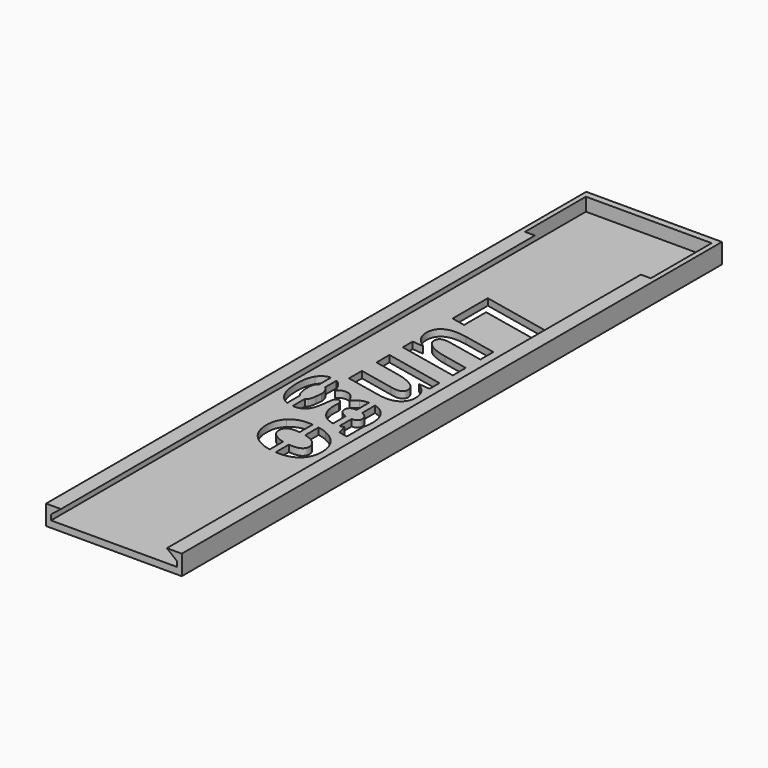
from build123d import *

# Parameters (mm, degrees)
F1_DEPTH = 202
F2_W     = 41
F2_H     = 6
F3_DEPTH = 2
F5_W     = 38
F5_H     = 23
F6_DEPTH = 4
F9_DEPTH = 2


with BuildPart() as f1:
    # F0 (on Front) → F1 (new body)
    with BuildSketch(Plane.XZ):
        Polygon((-20.5, 6), (-20.5, 0), (20.5, 0), (20.5, 6), (16, 6), (19, 3.6), (19, 2), (-19, 2), (-19, 3.6), (-16, 6), align=None)
    extrude(amount=F1_DEPTH)

    # F2 (on Front) → F3 (join)
    with BuildSketch(Plane.XZ):
        with Locations((0, 3)):
            Rectangle(F2_W, F2_H)
    extrude(amount=-F3_DEPTH)

    # F5 (on offset) → F6 (cut)
    with BuildSketch(Plane.XY.offset(6)):
        with Locations((0, -11.5)):
            Rectangle(F5_W, F5_H)
    extrude(amount=-F6_DEPTH, mode=Mode.SUBTRACT)

    # F8 (on offset) → F9 (cut, through all)
    with BuildSketch(Plane.XY.offset(2)):
        Polygon((14.329903841, -53.9844744205), (-9.466971159, -48.9584327539), (-9.466971159, -62.2553077539), (-5.3003044923, -63.1355160872), (-5.3003044923, -54.8021827539), (14.329903841, -58.9688494205), align=None)
        with BuildLine():
            Line((8.7309455077, -74.5261410872), (8.7309455077, -69.6303077539))
            Line((8.7309455077, -69.6303077539), (-1.1023878256, -67.5625994205))
            add(Edge.make_bspline(
                [(-4.5659294923, -67.1719744205), (-3.0555128256, -67.1719744205), (-1.1023878256, -67.5625994205)],
                knots=[0, 0, 0, 1, 1, 1], degree=2))
            add(Edge.make_bspline(
                [(-8.451346159, -68.3594744205), (-7.107596159, -67.1719744205), (-4.5659294923, -67.1719744205)],
                knots=[0, 0, 0, 1, 1, 1], degree=2))
            add(Edge.make_bspline(
                [(-9.795096159, -71.7917660872), (-9.795096159, -69.5469744205), (-8.451346159, -68.3594744205)],
                knots=[0, 0, 0, 1, 1, 1], degree=2))
            add(Edge.make_bspline(
                [(-6.0971794923, -77.5730160872), (-9.795096159, -75.2136410872), (-9.795096159, -71.7917660872)],
                knots=[0, 0, 0, 1, 1, 1], degree=2))
            Line((-6.0971794923, -77.5730160872), (-6.0971794923, -77.6719744205))
            Line((-6.0971794923, -77.6719744205), (-9.466971159, -77.3282244205))
            Line((-9.466971159, -77.3282244205), (-9.466971159, -81.0730160872))
            Line((-9.466971159, -81.0730160872), (8.7309455077, -84.9271827539))
            Line((8.7309455077, -84.9271827539), (8.7309455077, -80.0313494205))
            Line((8.7309455077, -80.0313494205), (1.1944871744, -78.4323910872))
            add(Edge.make_bspline(
                [(-3.982596159, -76.5131202539), (-2.1284294923, -77.7344744205), (1.1944871744, -78.4323910872)],
                knots=[0, 0, 0, 1, 1, 1], degree=2))
            add(Edge.make_bspline(
                [(-5.8367628256, -73.7969744205), (-5.8367628256, -75.2917660872), (-3.982596159, -76.5131202539)],
                knots=[0, 0, 0, 1, 1, 1], degree=2))
            add(Edge.make_bspline(
                [(-3.8367628256, -72.0365577539), (-5.8367628256, -72.0365577539), (-5.8367628256, -73.7969744205)],
                knots=[0, 0, 0, 1, 1, 1], degree=2))
            add(Edge.make_bspline(
                [(-1.8992628256, -72.2969744205), (-3.0034294923, -72.0365577539), (-3.8367628256, -72.0365577539)],
                knots=[0, 0, 0, 1, 1, 1], degree=2))
            Line((-1.8992628256, -72.2969744205), (8.7309455077, -74.5261410872))
        make_face()
        with BuildLine():
            Line((-9.466971159, -96.5053077539), (-9.466971159, -101.4011410872))
            Line((-9.466971159, -101.4011410872), (0.9028205077, -103.5678077539))
            add(Edge.make_bspline(
                [(3.829903841, -103.9428077539), (2.642403841, -103.9428077539), (0.9028205077, -103.5678077539)],
                knots=[0, 0, 0, 1, 1, 1], degree=2))
            add(Edge.make_bspline(
                [(7.712716341, -102.7136410872), (6.3559455077, -103.9428077539), (3.829903841, -103.9428077539)],
                knots=[0, 0, 0, 1, 1, 1], degree=2))
            add(Edge.make_bspline(
                [(9.0694871744, -99.2396827539), (9.0694871744, -101.4844744205), (7.712716341, -102.7136410872)],
                knots=[0, 0, 0, 1, 1, 1], degree=2))
            add(Edge.make_bspline(
                [(5.361153841, -93.4584327539), (9.0694871744, -95.8334327539), (9.0694871744, -99.2396827539)],
                knots=[0, 0, 0, 1, 1, 1], degree=2))
            Line((5.361153841, -93.4584327539), (5.361153841, -93.3594744205))
            Line((5.361153841, -93.3594744205), (8.7309455077, -93.7032244205))
            Line((8.7309455077, -93.7032244205), (8.7309455077, -89.9584327539))
            Line((8.7309455077, -89.9584327539), (-9.466971159, -86.1042660872))
            Line((-9.466971159, -86.1042660872), (-9.466971159, -91.0000994205))
            Line((-9.466971159, -91.0000994205), (-1.9305128256, -92.5990577539))
            add(Edge.make_bspline(
                [(3.243966341, -94.5183285872), (1.3871955077, -93.2969744205), (-1.9305128256, -92.5990577539)],
                knots=[0, 0, 0, 1, 1, 1], degree=2))
            add(Edge.make_bspline(
                [(5.1007371744, -97.2344744205), (5.1007371744, -95.7396827539), (3.243966341, -94.5183285872)],
                knots=[0, 0, 0, 1, 1, 1], degree=2))
            add(Edge.make_bspline(
                [(3.1007371744, -98.9948910872), (5.1007371744, -98.9948910872), (5.1007371744, -97.2344744205)],
                knots=[0, 0, 0, 1, 1, 1], degree=2))
            add(Edge.make_bspline(
                [(1.1632371744, -98.7344744205), (2.267403841, -98.9948910872), (3.1007371744, -98.9948910872)],
                knots=[0, 0, 0, 1, 1, 1], degree=2))
            Line((1.1632371744, -98.7344744205), (-9.466971159, -96.5053077539))
        make_face()
        with BuildLine():
            add(Edge.make_bspline(
                [(4.0109992474, -108.4262125397), (5.8969999361, -108.8752413691), (7.173653841, -110.2500994205)],
                knots=[0.3266001381, 0.3266001381, 0.3266001381, 1, 1, 1], degree=2))
            Line((4.0109992474, -108.4262125397), (4.0109992474, -113.2452108388))
            add(Edge.make_bspline(
                [(4.7179246744, -113.6016619205), (4.386438484, -113.3961266418), (4.0109992474, -113.2452108388)],
                knots=[0, 0, 0, 0.2657425827, 0.2657425827, 0.2657425827], degree=2))
            add(Edge.make_bspline(
                [(5.9653205077, -115.6303077539), (5.9653205077, -114.3750994205), (4.7179246744, -113.6016619205)],
                knots=[0, 0, 0, 1, 1, 1], degree=2))
            add(Edge.make_bspline(
                [(4.0590705077, -117.2396827539), (5.9653205077, -117.2396827539), (5.9653205077, -115.6303077539)],
                knots=[0, 0, 0, 1, 1, 1], degree=2))
            add(Edge.make_bspline(
                [(4.0109992474, -117.2395621602), (4.0349820659, -117.2396827539), (4.0590705077, -117.2396827539)],
                knots=[0.9873634403, 0.9873634403, 0.9873634403, 1, 1, 1], degree=2))
            Line((4.0109992474, -117.2395621602), (4.0109992474, -121.775109803))
            add(Edge.make_bspline(
                [(5.329903841, -121.5365577539), (4.7269386104, -121.7215164136), (4.0109992474, -121.775109803)],
                knots=[0, 0, 0, 0.7102412532, 0.7102412532, 0.7102412532], degree=2))
            Line((5.329903841, -121.5365577539), (5.9965705077, -124.3698910872))
            Line((5.9965705077, -124.3698910872), (8.6996955077, -124.9375994205))
            Line((8.6996955077, -124.9375994205), (8.6996955077, -118.5105160872))
            add(Edge.make_bspline(
                [(9.0694871744, -115.8073910872), (9.0694871744, -117.1615577539), (8.6996955077, -118.5105160872)],
                knots=[0, 0, 0, 1, 1, 1], degree=2))
            add(Edge.make_bspline(
                [(7.173653841, -110.2500994205), (9.0694871744, -112.2917660872), (9.0694871744, -115.8073910872)],
                knots=[0, 0, 0, 1, 1, 1], degree=2))
        make_face()
        with BuildLine():
            Line((2.0109992474, -112.8378896944), (2.0109992474, -108.208476623))
            add(Edge.make_bspline(
                [(-0.451346159, -108.7136410872), (0.5651343767, -108.2131405189), (2.0109992474, -108.208476623)],
                knots=[0, 0, 0, 0.9906815374, 0.9906815374, 0.9906815374], degree=2))
            add(Edge.make_bspline(
                [(-2.2742628256, -110.2761410872), (-1.4773878256, -109.2188494205), (-0.451346159, -108.7136410872)],
                knots=[0, 0, 0, 1, 1, 1], degree=2))
            add(Edge.make_bspline(
                [(-3.8758253256, -107.8907244205), (-3.0398878256, -108.6146827539), (-2.2742628256, -110.2761410872)],
                knots=[0, 0, 0, 1, 1, 1], degree=2))
            add(Edge.make_bspline(
                [(-5.8680128256, -107.1667660872), (-4.7117628256, -107.1667660872), (-3.8758253256, -107.8907244205)],
                knots=[0, 0, 0, 1, 1, 1], degree=2))
            add(Edge.make_bspline(
                [(-8.0346794923, -108.3698910872), (-7.2690544923, -107.1667660872), (-5.8680128256, -107.1667660872)],
                knots=[0, 0, 0, 1, 1, 1], degree=2))
            add(Edge.make_bspline(
                [(-10.0112419923, -104.8803077539), (-8.8159294923, -105.9948910872), (-8.0346794923, -108.3698910872)],
                knots=[0, 0, 0, 1, 1, 1], degree=2))
            add(Edge.make_bspline(
                [(-11.0132585764, -104.1810673988), (-10.4768809062, -104.4461172198), (-10.0112419923, -104.8803077539)],
                knots=[0.6104458759, 0.6104458759, 0.6104458759, 1, 1, 1], degree=2))
            Line((-11.0132585764, -104.1810673988), (-11.0132585764, -108.4627048705))
            add(Edge.make_bspline(
                [(-10.4930128256, -108.9636410872), (-10.7310258446, -108.6616842721), (-11.0132585764, -108.4627048705)],
                knots=[0, 0, 0, 0.3410335794, 0.3410335794, 0.3410335794], degree=2))
            add(Edge.make_bspline(
                [(-9.5659294923, -111.5782244205), (-9.795096159, -109.8490577539), (-10.4930128256, -108.9636410872)],
                knots=[0, 0, 0, 1, 1, 1], degree=2))
            Line((-9.5659294923, -111.5782244205), (-9.795096159, -113.4323910872))
            add(Edge.make_bspline(
                [(-10.3628044923, -115.6693702539), (-10.0190544923, -115.1407244205), (-9.795096159, -113.4323910872)],
                knots=[0, 0, 0, 1, 1, 1], degree=2))
            add(Edge.make_bspline(
                [(-11.0132585764, -116.1584176683), (-10.6124740776, -116.0533318131), (-10.3628044923, -115.6693702539)],
                knots=[0.2736884792, 0.2736884792, 0.2736884792, 1, 1, 1], degree=2))
            Line((-11.0132585764, -116.1584176683), (-11.0132585764, -120.7181658476))
            add(Edge.make_bspline(
                [(-10.3940544923, -120.7396827539), (-10.7104978071, -120.7396827539), (-11.0132585764, -120.7181658476)],
                knots=[0, 0, 0, 0.092056237, 0.092056237, 0.092056237], degree=2))
            add(Edge.make_bspline(
                [(-7.4070753256, -119.5261410872), (-8.4409294923, -120.7396827539), (-10.3940544923, -120.7396827539)],
                knots=[0, 0, 0, 1, 1, 1], degree=2))
            add(Edge.make_bspline(
                [(-6.0346794923, -115.6615577539), (-6.373221159, -118.3125994205), (-7.4070753256, -119.5261410872)],
                knots=[0, 0, 0, 1, 1, 1], degree=2))
            Line((-6.0346794923, -115.6615577539), (-5.7378044923, -113.4323910872))
            add(Edge.make_bspline(
                [(-5.365408659, -111.9844744205), (-5.607596159, -112.4740577539), (-5.7378044923, -113.4323910872)],
                knots=[0, 0, 0, 1, 1, 1], degree=2))
            add(Edge.make_bspline(
                [(-4.5659294923, -111.4948910872), (-5.123221159, -111.4948910872), (-5.365408659, -111.9844744205)],
                knots=[0, 0, 0, 1, 1, 1], degree=2))
            add(Edge.make_bspline(
                [(-3.3003044923, -112.8646827539), (-3.7378044923, -111.4948910872), (-4.5659294923, -111.4948910872)],
                knots=[0, 0, 0, 1, 1, 1], degree=2))
            add(Edge.make_bspline(
                [(-3.4617628256, -114.4740577539), (-3.4617628256, -113.5157244205), (-3.3003044923, -112.8646827539)],
                knots=[0, 0, 0, 1, 1, 1], degree=2))
            add(Edge.make_bspline(
                [(-1.6128044923, -119.8282244205), (-3.4617628256, -117.8594744205), (-3.4617628256, -114.4740577539)],
                knots=[0, 0, 0, 1, 1, 1], degree=2))
            add(Edge.make_bspline(
                [(2.0109992474, -121.6915681019), (-0.1916701764, -121.3414322274), (-1.6128044923, -119.8282244205)],
                knots=[0.2313865108, 0.2313865108, 0.2313865108, 1, 1, 1], degree=2))
            Line((2.0109992474, -121.6915681019), (2.0109992474, -116.9681989679))
            add(Edge.make_bspline(
                [(0.908028841, -116.4844744205), (1.4064830583, -116.7868838829), (2.0109992474, -116.9681989679)],
                knots=[0, 0, 0, 0.4004318398, 0.4004318398, 0.4004318398], degree=2))
            add(Edge.make_bspline(
                [(-0.3367628256, -114.5053077539), (-0.3367628256, -115.7292660872), (0.908028841, -116.4844744205)],
                knots=[0, 0, 0, 1, 1, 1], degree=2))
            add(Edge.make_bspline(
                [(1.6007371744, -112.8282244205), (-0.3367628256, -112.8282244205), (-0.3367628256, -114.5053077539)],
                knots=[0, 0, 0, 1, 1, 1], degree=2))
            add(Edge.make_bspline(
                [(2.0109992474, -112.8378896944), (1.8097571006, -112.8282244205), (1.6007371744, -112.8282244205)],
                knots=[0.8882121843, 0.8882121843, 0.8882121843, 1, 1, 1], degree=2))
        make_face()
        with BuildLine():
            Line((-13.0132585764, -108.2367659888), (-13.0132585764, -103.7679172388))
            add(Edge.make_bspline(
                [(-16.248221159, -105.6615577539), (-15.060857932, -103.8302009122), (-13.0132585764, -103.7679172388)],
                knots=[0, 0, 0, 0.965990422, 0.965990422, 0.965990422], degree=2))
            add(Edge.make_bspline(
                [(-17.4773878256, -110.9428077539), (-17.4773878256, -107.5573910872), (-16.248221159, -105.6615577539)],
                knots=[0, 0, 0, 1, 1, 1], degree=2))
            add(Edge.make_bspline(
                [(-15.654471159, -118.2006202539), (-17.4773878256, -115.6615577539), (-17.4773878256, -110.9428077539)],
                knots=[0, 0, 0, 1, 1, 1], degree=2))
            add(Edge.make_bspline(
                [(-13.0132585764, -120.28538064), (-14.6026399254, -119.6656709006), (-15.654471159, -118.2006202539)],
                knots=[0.4229954376, 0.4229954376, 0.4229954376, 1, 1, 1], degree=2))
            Line((-13.0132585764, -120.28538064), (-13.0132585764, -115.4827402389))
            add(Edge.make_bspline(
                [(-13.4070753256, -114.9454119205), (-13.2282787956, -115.2514657674), (-13.0132585764, -115.4827402389)],
                knots=[0, 0, 0, 0.2443340482, 0.2443340482, 0.2443340482], degree=2))
            add(Edge.make_bspline(
                [(-14.138846159, -111.2344744205), (-14.138846159, -113.6928077539), (-13.4070753256, -114.9454119205)],
                knots=[0, 0, 0, 1, 1, 1], degree=2))
            add(Edge.make_bspline(
                [(-13.0132585764, -108.2367659888), (-14.138846159, -108.7856117436), (-14.138846159, -111.2344744205)],
                knots=[0.2241227162, 0.2241227162, 0.2241227162, 1, 1, 1], degree=2))
        make_face()
        with BuildLine():
            Line((-1.3852887205, -130.142629513), (-1.3852887205, -125.1858483621))
            add(Edge.make_bspline(
                [(-2.795096159, -125.1355160872), (-2.0738091153, -125.1355160872), (-1.3852887205, -125.1858483621)],
                knots=[0, 0, 0, 0.2079386072, 0.2079386072, 0.2079386072], degree=2))
            add(Edge.make_bspline(
                [(-7.881033659, -127.0313494205), (-5.966971159, -125.1355160872), (-2.795096159, -125.1355160872)],
                knots=[0, 0, 0, 1, 1, 1], degree=2))
            add(Edge.make_bspline(
                [(-9.795096159, -132.1042660872), (-9.795096159, -128.9271827539), (-7.881033659, -127.0313494205)],
                knots=[0, 0, 0, 1, 1, 1], degree=2))
            add(Edge.make_bspline(
                [(-8.3367628256, -137.2474952539), (-9.795096159, -135.0834327539), (-9.795096159, -132.1042660872)],
                knots=[0, 0, 0, 1, 1, 1], degree=2))
            add(Edge.make_bspline(
                [(-4.224783659, -140.5599952539), (-6.8784294923, -139.4115577539), (-8.3367628256, -137.2474952539)],
                knots=[0, 0, 0, 1, 1, 1], degree=2))
            add(Edge.make_bspline(
                [(-1.3852887205, -141.4196577403), (-2.9018038968, -141.1325507741), (-4.224783659, -140.5599952539)],
                knots=[0.5014482545, 0.5014482545, 0.5014482545, 1, 1, 1], degree=2))
            Line((-1.3852887205, -141.4196577403), (-1.3852887205, -136.4040712677))
            add(Edge.make_bspline(
                [(-2.0190544923, -136.2292660872), (-1.7070455765, -136.3250582982), (-1.3852887205, -136.4040712677)],
                knots=[0, 0, 0, 0.1751629001, 0.1751629001, 0.1751629001], degree=2))
            add(Edge.make_bspline(
                [(-4.802908659, -134.7058285872), (-3.8003044923, -135.6823910872), (-2.0190544923, -136.2292660872)],
                knots=[0, 0, 0, 1, 1, 1], degree=2))
            add(Edge.make_bspline(
                [(-5.8055128256, -132.5105160872), (-5.8055128256, -133.7292660872), (-4.802908659, -134.7058285872)],
                knots=[0, 0, 0, 1, 1, 1], degree=2))
            add(Edge.make_bspline(
                [(-2.795096159, -130.0678077539), (-5.8055128256, -130.0678077539), (-5.8055128256, -132.5105160872)],
                knots=[0, 0, 0, 1, 1, 1], degree=2))
            add(Edge.make_bspline(
                [(-1.3852887205, -130.142629513), (-2.0830286543, -130.0678077539), (-2.795096159, -130.0678077539)],
                knots=[0.6503402534, 0.6503402534, 0.6503402534, 1, 1, 1], degree=2))
        make_face()
        with BuildLine():
            add(Edge.make_bspline(
                [(0.6147112795, -125.4517017845), (2.0865246946, -125.7421955027), (3.384591341, -126.2995785872)],
                knots=[0.521174263, 0.521174263, 0.521174263, 1, 1, 1], degree=2))
            Line((0.6147112795, -125.4517017845), (0.6147112795, -130.5187355691))
            add(Edge.make_bspline(
                [(1.1606330077, -130.6797869205), (0.8888471292, -130.593125209), (0.6147112795, -130.5187355691)],
                knots=[0, 0, 0, 0.1416089245, 0.1416089245, 0.1416089245], degree=2))
            add(Edge.make_bspline(
                [(4.0746955077, -132.2579119205), (3.079903841, -131.2917660872), (1.1606330077, -130.6797869205)],
                knots=[0, 0, 0, 1, 1, 1], degree=2))
            add(Edge.make_bspline(
                [(5.0694871744, -134.4480160872), (5.0694871744, -133.2240577539), (4.0746955077, -132.2579119205)],
                knots=[0, 0, 0, 1, 1, 1], degree=2))
            add(Edge.make_bspline(
                [(1.861153841, -136.7761410872), (5.0694871744, -136.7761410872), (5.0694871744, -134.4480160872)],
                knots=[0, 0, 0, 1, 1, 1], degree=2))
            add(Edge.make_bspline(
                [(0.6147112795, -136.7256312022), (1.2232606413, -136.7761410872), (1.861153841, -136.7761410872)],
                knots=[0.6960905847, 0.6960905847, 0.6960905847, 1, 1, 1], degree=2))
            Line((0.6147112795, -136.7256312022), (0.6147112795, -141.6689240784))
            add(Edge.make_bspline(
                [(1.861153841, -141.7084327539), (1.2245390297, -141.7084327539), (0.6147112795, -141.6689240784)],
                knots=[0, 0, 0, 0.1854780634, 0.1854780634, 0.1854780634], degree=2))
            add(Edge.make_bspline(
                [(7.150216341, -139.8516619205), (5.2309455077, -141.7084327539), (1.861153841, -141.7084327539)],
                knots=[0, 0, 0, 1, 1, 1], degree=2))
            add(Edge.make_bspline(
                [(9.0694871744, -134.8073910872), (9.0694871744, -137.9948910872), (7.150216341, -139.8516619205)],
                knots=[0, 0, 0, 1, 1, 1], degree=2))
            add(Edge.make_bspline(
                [(7.5825080077, -129.6615577539), (9.0694871744, -131.8594744205), (9.0694871744, -134.8073910872)],
                knots=[0, 0, 0, 1, 1, 1], degree=2))
            add(Edge.make_bspline(
                [(3.384591341, -126.2995785872), (6.095528841, -127.4636410872), (7.5825080077, -129.6615577539)],
                knots=[0, 0, 0, 1, 1, 1], degree=2))
        make_face()
    extrude(amount=-F9_DEPTH, mode=Mode.SUBTRACT)


solid = f1.part
